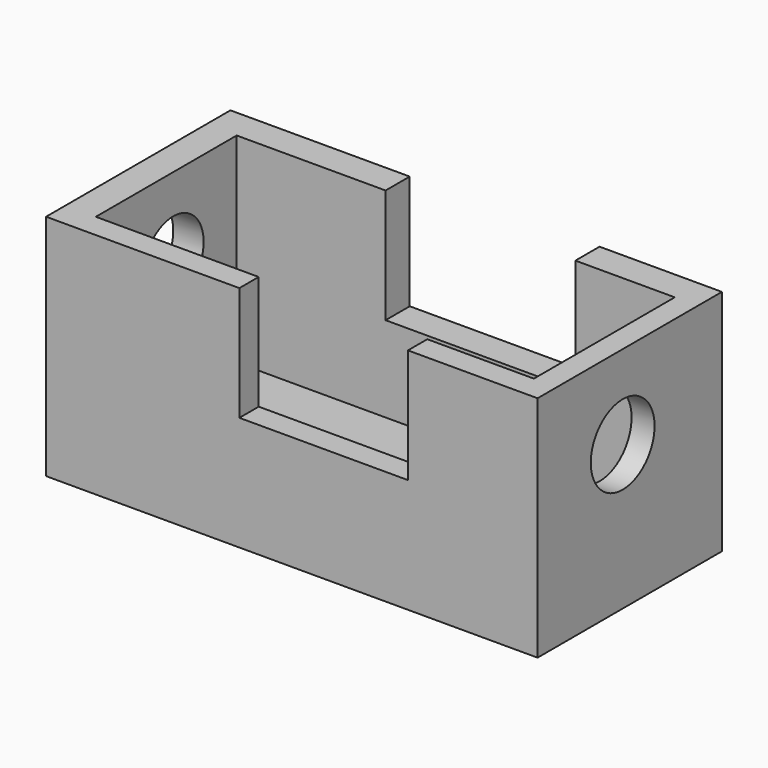
from build123d import *

# Parameters (mm, degrees)
F0_W     = 218.6504378915
F0_H     = 102.5099009275
F1_DEPTH = 101.6
F2_W     = 194.8913782835
F2_H     = 78.3294849098
F3_DEPTH = 88.9
F4_W     = 84.4324864447
F4_H     = 13.4305804968
F4_W_2   = 74.9933160841
F4_H_2   = 10.749835521
F5_DEPTH = 50.8
F6_R     = 16.9313597919
F7_DEPTH = 25.4
F8_R     = 17.7291047607
F9_DEPTH = 25.4


with BuildPart() as f1:
    # F0 (on Top) → F1 (new body)
    with BuildSketch(Plane.XY):
        with Locations((-0.1867227256, -2.5207363069)):
            Rectangle(F0_W, F0_H)
        with Locations((-0.1867227256, -2.5207363069)):
            Rectangle(F0_W, F0_H)
    extrude(amount=F1_DEPTH)

    # F2 (on face) → F3 (cut)
    with BuildSketch(Plane.XY.offset(101.6)):
        with Locations((1.4596879482, -3.8611087948)):
            Rectangle(F2_W, F2_H)
        with Locations((1.4596879482, -3.8611087948)):
            Rectangle(F2_W, F2_H)
    extrude(amount=-F3_DEPTH, mode=Mode.SUBTRACT)

    # F4 (on face) → F5 (cut)
    with BuildSketch(Plane.XY.offset(101.6)):
        with Locations((12.4733056873, 42.0189239085)):
            Rectangle(F4_W, F4_H)
        with Locations((13.9715243131, -48.4007690102)):
            Rectangle(F4_W_2, F4_H_2)
    extrude(amount=-F5_DEPTH, mode=Mode.SUBTRACT)

    # F6 (on face) → F7 (cut)
    with BuildSketch(Plane(origin=(-109.5119416714, 0, 0), x_dir=(0, -1, 0), z_dir=(-1, 0, 0))):
        with Locations((0, 67.3742890358)):
            Circle(F6_R)
        with Locations((0, 67.3742890358)):
            Circle(F6_R)
    extrude(amount=-F7_DEPTH, mode=Mode.SUBTRACT)

    # F8 (on face) → F9 (cut)
    with BuildSketch(Plane.YZ.offset(109.1384962201)):
        with Locations((-6.4566782676, 64.2816573381)):
            Circle(F8_R)
    extrude(amount=-F9_DEPTH, mode=Mode.SUBTRACT)


solid = f1.part
